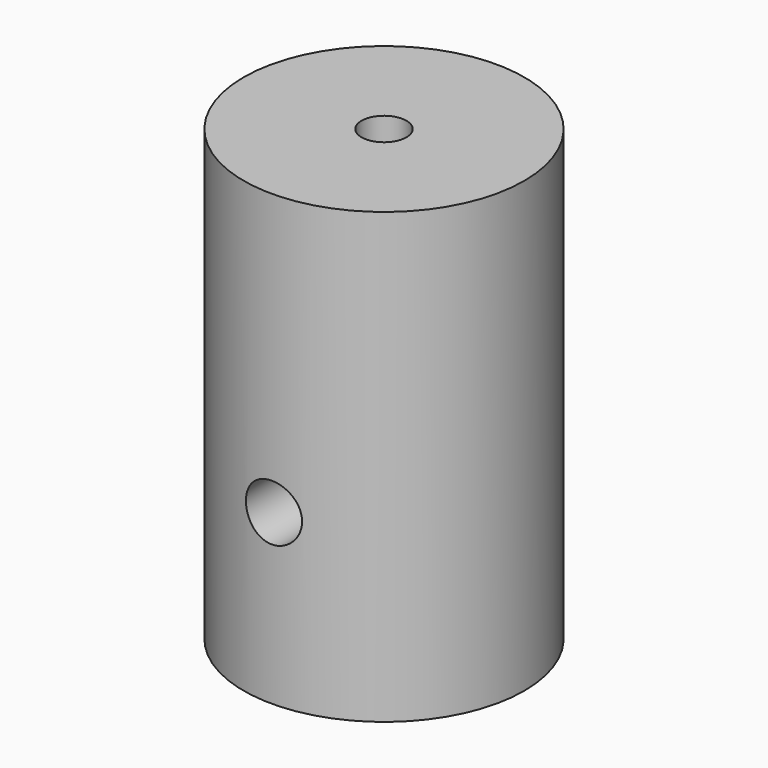
from build123d import *

# Parameters (mm, degrees)
F0_R     = 12.5
F1_DEPTH = 40
F2_R     = 2
F3_DEPTH = 15
F4_R     = 3
F5_DEPTH = 10
F6_R     = 2.5
F7_DEPTH = 12.5


with BuildPart() as f1:
    # F0 (on Top) → F1 (new body)
    with BuildSketch(Plane.XY):
        Circle(F0_R)
    extrude(amount=F1_DEPTH)

    # F2 (on face) → F3 (cut)
    with BuildSketch(Plane.XY.offset(40)):
        Circle(F2_R)
    extrude(amount=-F3_DEPTH, mode=Mode.SUBTRACT)

    # F4 (on face) → F5 (cut)
    with BuildSketch(Plane(origin=(0, 0, 0), x_dir=(1, 0, 0), z_dir=(0, 0, -1))):
        Circle(F4_R)
    extrude(amount=-F5_DEPTH, mode=Mode.SUBTRACT)

    # F6 (on Front) → F7 (cut, symmetric)
    with BuildSketch(Plane.XZ):
        with Locations((0, 15)):
            Circle(F6_R)
    extrude(amount=F7_DEPTH, both=True, mode=Mode.SUBTRACT)


solid = f1.part
